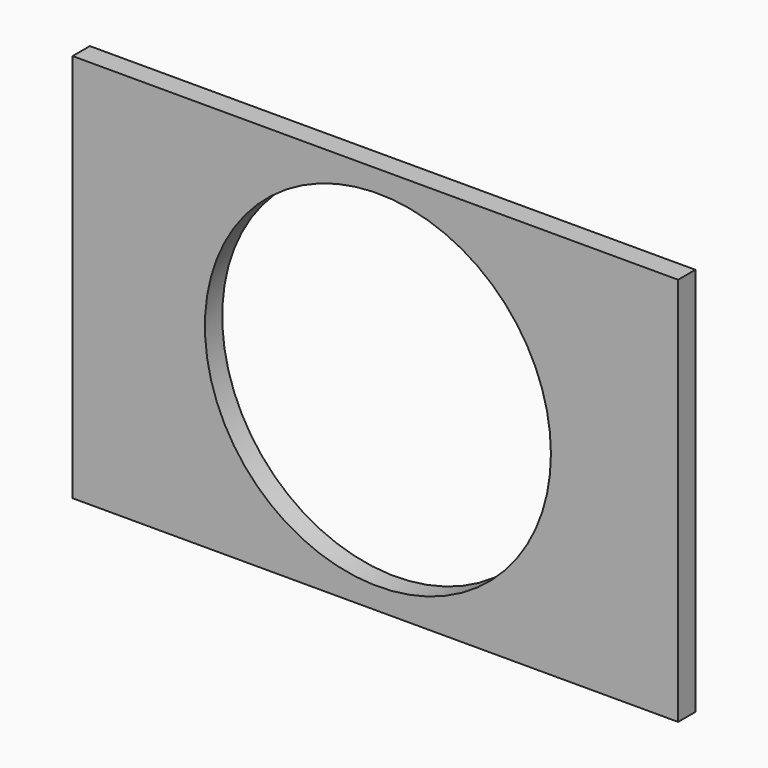
from build123d import *

# Parameters (mm, degrees)
F1_DEPTH = 5


with BuildPart() as f1:
    # F0 (on Front) → F1 (new body)
    with BuildSketch(Plane.XZ):
        Polygon((69.406778, -45), (69.406778, 0), (69.406778, 45), (-70.593222, 45), (-70.593222, -45), align=None)
        with BuildLine():
            ThreePointArc((-40, 0), (0, 40), (40, 0))
            ThreePointArc((40, 0), (0, -40), (-40, 0))
        make_face(mode=Mode.SUBTRACT)
    extrude(amount=F1_DEPTH)


solid = f1.part
